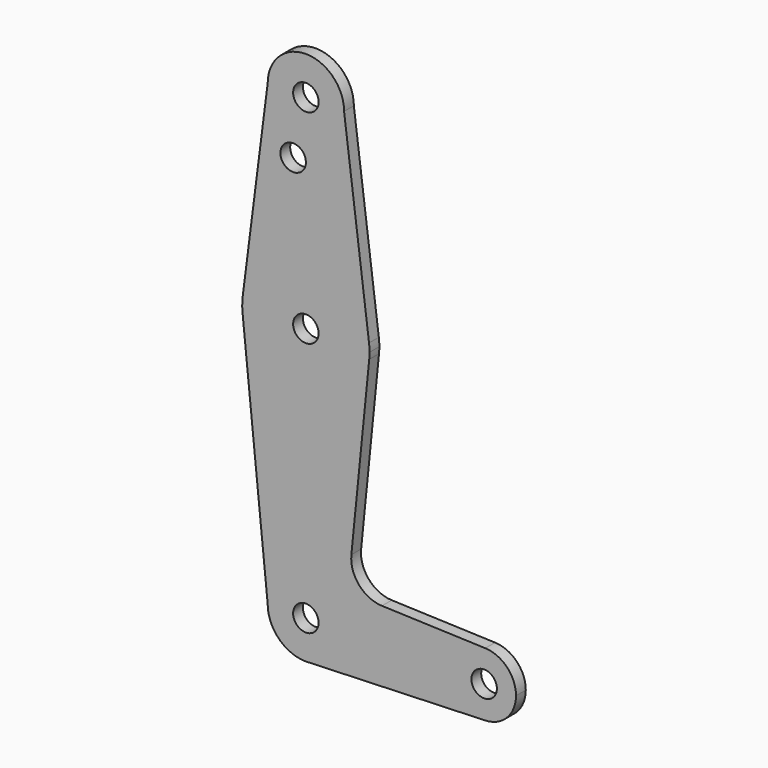
from build123d import *

# Parameters (mm, degrees)
F0_R     = 3.175
F1_DEPTH = 3.048


with BuildPart() as f1:
    # F0 (on Front) → F1 (new body)
    with BuildSketch(Plane.XZ):
        with BuildLine():
            ThreePointArc((3.175, 0), (0, 3.175), (-3.175, 0))
            ThreePointArc((-3.175, 0), (0, -3.175), (3.175, 0))
        make_face()
        with BuildLine():
            ThreePointArc((0.677344, -9.500886), (6.970557, -6.491299), (9.525, 0))
            ThreePointArc((9.525, 0), (0, 9.525), (-9.525, 0))
            ThreePointArc((-9.525, 0), (-6.735192, -6.735192), (0, -9.525))
            Line((0, -9.525), (0.677344, -9.500886))
        make_face()
        with BuildLine():
            ThreePointArc((3.175, 0), (0, -3.175), (-3.175, 0))
            ThreePointArc((-3.175, 0), (0, 3.175), (3.175, 0))
        make_face(mode=Mode.SUBTRACT)
        with BuildLine():
            ThreePointArc((-9.525, 0), (0, 9.525), (9.525, 0))
            ThreePointArc((9.525, 0), (6.970557, -6.491299), (0.677344, -9.500886))
            Line((0.677344, -9.500886), (44.732405, -7.932475))
            ThreePointArc((44.732405, -7.932475), (36.5125, 0.000539), (44.733482, 7.932436))
            Line((44.733482, 7.932436), (18.9676, 8.853234))
            ThreePointArc((18.9676, 8.853234), (13.2612, 11.571359), (11.341187, 17.593382))
            Line((11.341187, 17.593382), (15.795426, 61.9125))
            ThreePointArc((15.795426, 61.9125), (0.006091, 47.625001), (-15.794203, 61.90038))
            Line((-15.794203, 61.90038), (-9.525, 0))
        make_face()
        with BuildLine():
            ThreePointArc((0, -9.525), (0.338886, -9.51897), (0.677344, -9.500886))
            Line((0.677344, -9.500886), (0, -9.525))
        make_face()
        with BuildLine():
            ThreePointArc((-15.747457, 65.508289), (-15.873668, 63.705667), (-15.794203, 61.90038))
            ThreePointArc((-15.794203, 61.90038), (0.006091, 47.625001), (15.795426, 61.9125))
            ThreePointArc((15.795426, 61.9125), (15.855094, 62.705253), (15.875, 63.5))
            ThreePointArc((15.875, 63.5), (15.843082, 64.506168), (15.747457, 65.508289))
            ThreePointArc((15.747457, 65.508289), (0, 79.375), (-15.747457, 65.508289))
        make_face()
        with Locations((0, 63.5)):
            Circle(F0_R, mode=Mode.SUBTRACT)
        with BuildLine():
            ThreePointArc((44.733482, 7.932436), (36.5125, 0.000539), (44.732405, -7.932475))
            ThreePointArc((44.732405, -7.932475), (50.161633, -5.51191), (52.3875, 0))
            ThreePointArc((52.3875, 0), (50.162007, 5.511523), (44.733482, 7.932436))
        make_face()
        with Locations((44.45, 0)):
            Circle(F0_R, mode=Mode.SUBTRACT)
        with BuildLine():
            Line((-9.525, 114.3), (-15.747457, 65.508289))
            ThreePointArc((-15.747457, 65.508289), (0, 79.375), (15.747457, 65.508289))
            Line((15.747457, 65.508289), (9.525, 114.3))
            ThreePointArc((9.525, 114.3), (0, 104.775), (-9.525, 114.3))
        make_face()
        with Locations((-3.175, 100.0252)):
            Circle(F0_R, mode=Mode.SUBTRACT)
        with BuildLine():
            ThreePointArc((9.525, 114.3), (0, 123.825), (-9.525, 114.3))
            ThreePointArc((-9.525, 114.3), (0, 104.775), (9.525, 114.3))
        make_face()
        with Locations((0, 114.3)):
            Circle(F0_R, mode=Mode.SUBTRACT)
    extrude(amount=F1_DEPTH)


solid = f1.part
